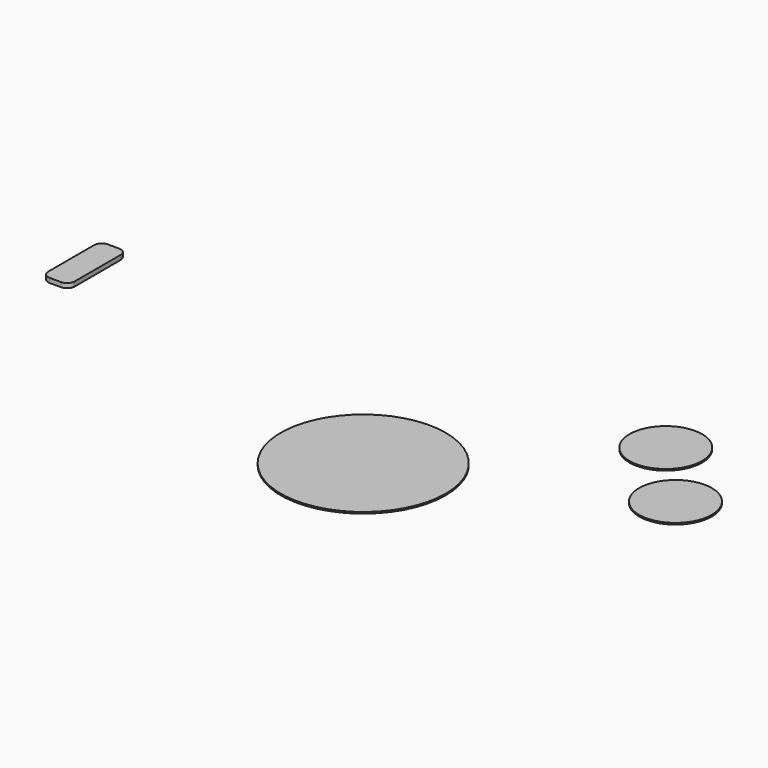
from build123d import *

# Parameters (mm, degrees)
F0_R     = 5.45
F1_DEPTH = 0.1
F2_R     = 2.4
F3_DEPTH = 0.1
F4_W     = 1.75
F4_H     = 1.4
F4_H_2   = 2
F5_DEPTH = 0.3
F6_R     = 0.5


with BuildPart() as f1:
    # F0 (on Top) → F1 (new body)
    with BuildSketch(Plane.XY):
        Circle(F0_R)
    extrude(amount=F1_DEPTH)


with BuildPart() as f3:
    # F2 (on Top) → F3 (new body)
    with BuildSketch(Plane.XY):
        with Locations((11.096717, 11.117948)):
            Circle(F2_R)
        with Locations((15.24898, 6.728412)):
            Circle(F2_R)
    extrude(amount=F3_DEPTH)


with BuildPart() as f5:
    # F4 (on Top) → F5 (new body)
    with BuildSketch(Plane.XY):
        with Locations((-24.948817, 9.862341)):
            Rectangle(F4_W, F4_H)
        with Locations((-24.948817, 8.162341)):
            Rectangle(F4_W, F4_H_2)
        with Locations((-24.948817, 6.462341)):
            Rectangle(F4_W, F4_H)
    extrude(amount=F5_DEPTH)

    # F6
    f6_edges = [f5.edges().sort_by_distance(p)[0] for p in [
        (-24.073817, 10.562341, 0.15),
        (-25.823817, 10.562341, 0.15),
        (-25.823817, 5.762341, 0.15),
        (-24.073817, 5.762341, 0.15),
    ]]
    fillet(f6_edges, radius=F6_R)


solid = Compound([f1.part, f3.part, f5.part])
